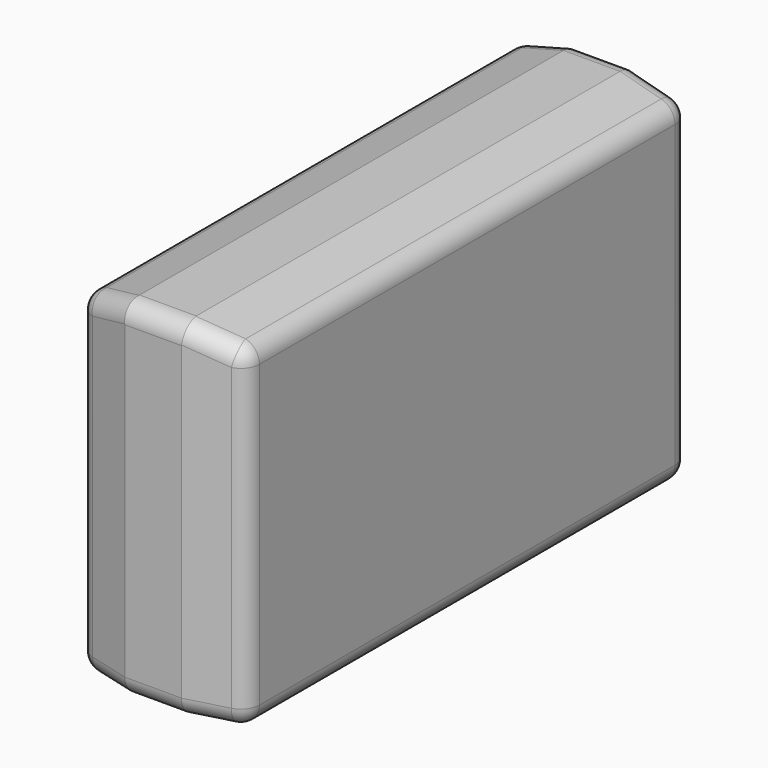
from build123d import *

# Parameters (mm, degrees)
F0_W       = 91
F0_H       = 310
F1_DEPTH   = 190
F2_SIZE2   = 30
F2_SIZE    = 8
F2_2_SIZE2 = 30
F2_2_SIZE  = 8
F3_SIZE2   = 29.9974
F3_SIZE    = 8.001
F3_2_SIZE2 = 29.9974
F3_2_SIZE  = 8.001
F4_R       = 10.16


with BuildPart() as f1:
    # F0 (on Top) → F1 (new body)
    with BuildSketch(Plane.XY):
        with Locations((45.5, -155)):
            Rectangle(F0_W, F0_H)
    extrude(amount=F1_DEPTH)

    # F2
    f2_edges = [f1.edges().sort_by_distance(p)[0] for p in [
        (91, -310, 95),
    ]]
    f2_side = f1.faces().sort_by_distance((91, -155, 95))[0]
    chamfer(f2_edges, length=F2_SIZE, length2=F2_SIZE2, reference=f2_side)

    # F2#2
    f2_2_edges = [f1.edges().sort_by_distance(p)[0] for p in [
        (0, -310, 95),
    ]]
    f2_2_side = f1.faces().sort_by_distance((0, -155, 95))[0]
    chamfer(f2_2_edges, length=F2_2_SIZE, length2=F2_2_SIZE2, reference=f2_2_side)

    # F3
    f3_edges = [f1.edges().sort_by_distance(p)[0] for p in [
        (91, -151, 190),
    ]]
    f3_side = f1.faces().sort_by_distance((91, -151, 95))[0]
    chamfer(f3_edges, length=F3_SIZE, length2=F3_SIZE2, reference=f3_side)

    # F3#2
    f3_2_edges = [f1.edges().sort_by_distance(p)[0] for p in [
        (0, -151, 190),
    ]]
    f3_2_side = f1.faces().sort_by_distance((0, -151, 95))[0]
    chamfer(f3_2_edges, length=F3_2_SIZE, length2=F3_2_SIZE2, reference=f3_2_side)

    # F4 (call 1 of 2: OpenCascade refuses the feature's edges together)
    f4_edges = [f1.edges().sort_by_distance(p)[0] for p in [
        (0, -302, 90.9995),
        (0, -151, 181.999),
        (0, -151, 0),
        (0, 0, 90.9995),
        (91, -302, 90.9995),
        (91, -151, 181.999),
        (91, -151, 0),
        (91, 0, 90.9995),
        (45.5, -310, 0),
        (15, -306, 0),
        (76, -306, 0),
        (45.5, 0, 0),
        (76.0013, -305.999653, 185.9995),
        (14.9987, -305.999653, 185.9995),
        (14.9987, 0, 185.9995),
        (76.0013, 0, 185.9995),
        (45.5, 0, 190),
    ]]
    fillet(f4_edges, radius=F4_R)

    # F4#2 (call 2 of 2)
    f4_2_edges = [f1.edges().sort_by_distance(p)[0] for p in [
        (45.5, -310, 190),
    ]]
    fillet(f4_2_edges, radius=F4_R)


solid = f1.part
